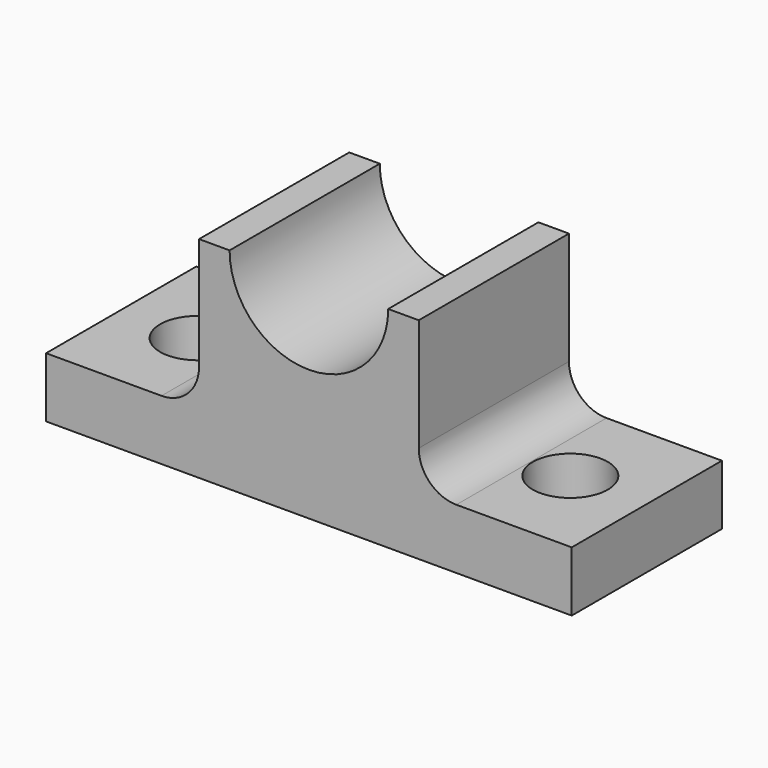
from build123d import *

# Parameters (mm, degrees)
F1_DEPTH = 25
F3_D     = 10
F4_D     = 10
F5_R     = 5


with BuildPart() as f1:
    # F0 (on Front) → F1 (new body)
    with BuildSketch(Plane.XZ):
        with BuildLine():
            Line((-29.814812, 8), (-29.814812, 0))
            Line((-29.814812, 0), (40.185188, 0))
            Line((40.185188, 0), (40.185188, 8))
            Line((40.185188, 8), (19.814818, 8))
            Line((19.814818, 8), (19.814818, 28))
            Line((19.814818, 28), (15.746092, 28))
            ThreePointArc((15.746092, 28), (5.185188, 17.439096), (-5.375716, 28))
            Line((-5.375716, 28), (-9.444442, 28))
            Line((-9.444442, 28), (-9.444442, 8))
            Line((-9.444442, 8), (-29.814812, 8))
        make_face()
    extrude(amount=F1_DEPTH)

    # F3 (through all)
    with Locations(Plane.XY.offset(8)):
        with Locations((-19.629627, -12.5)):
            Hole(F3_D / 2)

    # F4 (through all)
    with Locations(Plane.XY.offset(8)):
        with Locations((30.000003, -12.5)):
            Hole(F4_D / 2)

    # F5
    f5_edges = [f1.edges().sort_by_distance(p)[0] for p in [
        (-9.444442, -12.5, 8),
        (19.814818, -12.5, 8),
    ]]
    fillet(f5_edges, radius=F5_R)


solid = f1.part
